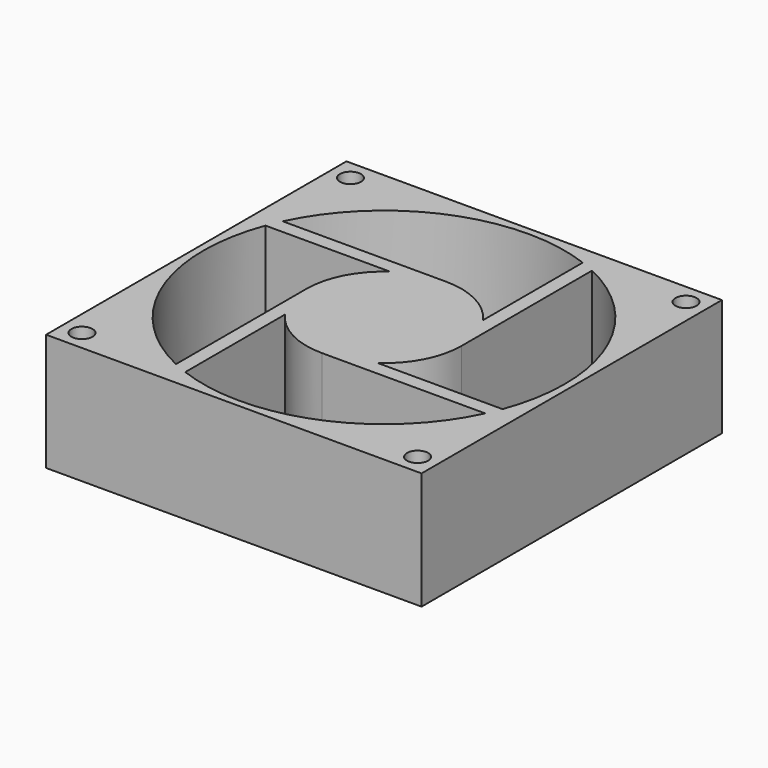
from build123d import *

# Parameters (mm, degrees)
F0_W     = 80
F0_H     = 80
F0_R     = 2.25
F0_R_2   = 38.5
F1_DEPTH = 25
F3_DEPTH = 25


with BuildPart() as f1:
    # F0 (on Top) → F1 (new body)
    with BuildSketch(Plane.XY):
        Rectangle(F0_W, F0_H)
        with Locations((-35.75, -35.75)):
            Circle(F0_R, mode=Mode.SUBTRACT)
        with Locations((35.75, -35.75)):
            Circle(F0_R, mode=Mode.SUBTRACT)
        with Locations((-35.75, 35.75)):
            Circle(F0_R, mode=Mode.SUBTRACT)
        Circle(F0_R_2, mode=Mode.SUBTRACT)
        with Locations((35.75, 35.75)):
            Circle(F0_R, mode=Mode.SUBTRACT)
    extrude(amount=F1_DEPTH)

    # F2 (on Top) → F3 (join)
    with BuildSketch(Plane.XY):
        with BuildLine():
            ThreePointArc((9.4868329805, -13.5), (14.6421095505, -7.6064859108), (16.5, 0))
            Line((16.5, 0), (13.5, 0))
            Line((13.5, 0), (13.5, 9.4868329805))
            ThreePointArc((13.5, 9.4868329805), (7.6064859108, 14.6421095505), (0, 16.5))
            Line((0, 16.5), (0, 13.5))
            Line((0, 13.5), (-9.4868329805, 13.5))
            ThreePointArc((-9.4868329805, 13.5), (-14.6421095505, 7.6064859108), (-16.5, 0))
            Line((-16.5, 0), (-13.5, 0))
            Line((-13.5, 0), (-13.5, -9.4868329805))
            ThreePointArc((-13.5, -9.4868329805), (-7.6064859108, -14.6421095505), (0, -16.5))
            Line((0, -16.5), (0, -13.5))
            Line((0, -13.5), (9.4868329805, -13.5))
        make_face()
        with BuildLine():
            ThreePointArc((13.5, 9.4868329805), (15.7321327226, 4.9749371855), (16.5, 0))
            Line((16.5, 0), (16.5, 34.7850542619))
            ThreePointArc((16.5, 34.7850542619), (15.0134445147, 35.452030743), (13.5, 36.0555127546))
            Line((13.5, 36.0555127546), (13.5, 9.4868329805))
        make_face()
        with BuildLine():
            Line((13.5, 0), (16.5, 0))
            ThreePointArc((16.5, 0), (15.7321327226, 4.9749371855), (13.5, 9.4868329805))
            Line((13.5, 9.4868329805), (13.5, 0))
        make_face()
        with BuildLine():
            Line((0, 13.5), (0, 16.5))
            ThreePointArc((0, 16.5), (-4.9749371855, 15.7321327226), (-9.4868329805, 13.5))
            Line((-9.4868329805, 13.5), (0, 13.5))
        make_face()
        with BuildLine():
            ThreePointArc((-9.4868329805, 13.5), (-4.9749371855, 15.7321327226), (0, 16.5))
            Line((0, 16.5), (-34.7850542619, 16.5))
            ThreePointArc((-34.7850542619, 16.5), (-35.452030743, 15.0134445147), (-36.0555127546, 13.5))
            Line((-36.0555127546, 13.5), (-9.4868329805, 13.5))
        make_face()
        with BuildLine():
            ThreePointArc((-16.5, 0), (-15.7321327226, -4.9749371855), (-13.5, -9.4868329805))
            Line((-13.5, -9.4868329805), (-13.5, 0))
            Line((-13.5, 0), (-16.5, 0))
        make_face()
        with BuildLine():
            Line((-13.5, -36.0555127546), (-13.5, -9.4868329805))
            ThreePointArc((-13.5, -9.4868329805), (-15.7321327226, -4.9749371855), (-16.5, 0))
            Line((-16.5, 0), (-16.5, -34.7850542619))
            ThreePointArc((-16.5, -34.7850542619), (-15.0134445147, -35.452030743), (-13.5, -36.0555127546))
        make_face()
        with BuildLine():
            ThreePointArc((0, -16.5), (4.9749371855, -15.7321327226), (9.4868329805, -13.5))
            Line((9.4868329805, -13.5), (0, -13.5))
            Line((0, -13.5), (0, -16.5))
        make_face()
        with BuildLine():
            Line((36.0555127546, -13.5), (9.4868329805, -13.5))
            ThreePointArc((9.4868329805, -13.5), (4.9749371855, -15.7321327226), (0, -16.5))
            Line((0, -16.5), (34.7850542619, -16.5))
            ThreePointArc((34.7850542619, -16.5), (35.452030743, -15.0134445147), (36.0555127546, -13.5))
        make_face()
    extrude(amount=F3_DEPTH)


solid = f1.part
